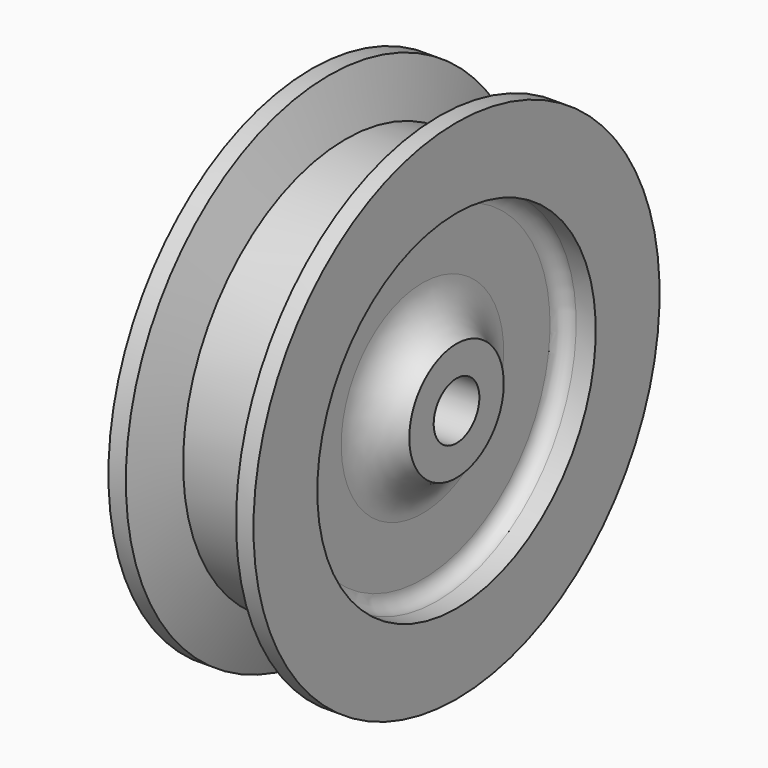
from build123d import *

# Parameters (mm, degrees)
F2_R     = 1.4224
F3_DEPTH = 25.4


with BuildPart() as f1:
    # F0 (on Front) → F1 (revolve)
    with BuildSketch(Plane.XZ):
        with BuildLine():
            Line((1.524, 22.225), (0, 22.225))
            Line((0, 22.225), (0, 15.24))
            Line((0, 15.24), (1.7145, 15.24))
            ThreePointArc((1.7145, 15.24), (2.612526, 14.868026), (2.9845, 13.97))
            Line((2.9845, 13.97), (2.9845, 8.89))
            ThreePointArc((2.9845, 8.89), (1.868577, 6.195923), (-0.8255, 5.08))
            Line((-0.8255, 5.08), (-5.08, 5.08))
            Line((-5.08, 5.08), (-5.08, 2.5))
            Line((-5.08, 2.5), (6.35, 2.5))
            Line((6.35, 2.5), (12.7, 2.5))
            Line((12.7, 2.5), (12.7, 5.08))
            Line((12.7, 5.08), (12.7, 5.170504))
            ThreePointArc((12.7, 5.170504), (10.553863, 6.505577), (9.7155, 8.89))
            Line((9.7155, 8.89), (9.7155, 13.97))
            ThreePointArc((9.7155, 13.97), (10.087474, 14.868026), (10.9855, 15.24))
            Line((10.9855, 15.24), (12.7, 15.24))
            Line((12.7, 15.24), (12.7, 22.225))
            Line((12.7, 22.225), (11.176, 22.225))
            Line((11.176, 22.225), (9.7155, 17.78))
            Line((9.7155, 17.78), (6.35, 17.78))
            Line((6.35, 17.78), (2.9845, 17.78))
            Line((2.9845, 17.78), (1.524, 22.225))
        make_face()
    revolve(axis=Axis((5.396675, 0, 0), (1, 0, 0)))

    # F2 (on Top) → F3 (cut)
    with BuildSketch(Plane.XY):
        with Locations((-2.54, 0)):
            Circle(F2_R)
    extrude(amount=-F3_DEPTH, mode=Mode.SUBTRACT)


solid = f1.part
